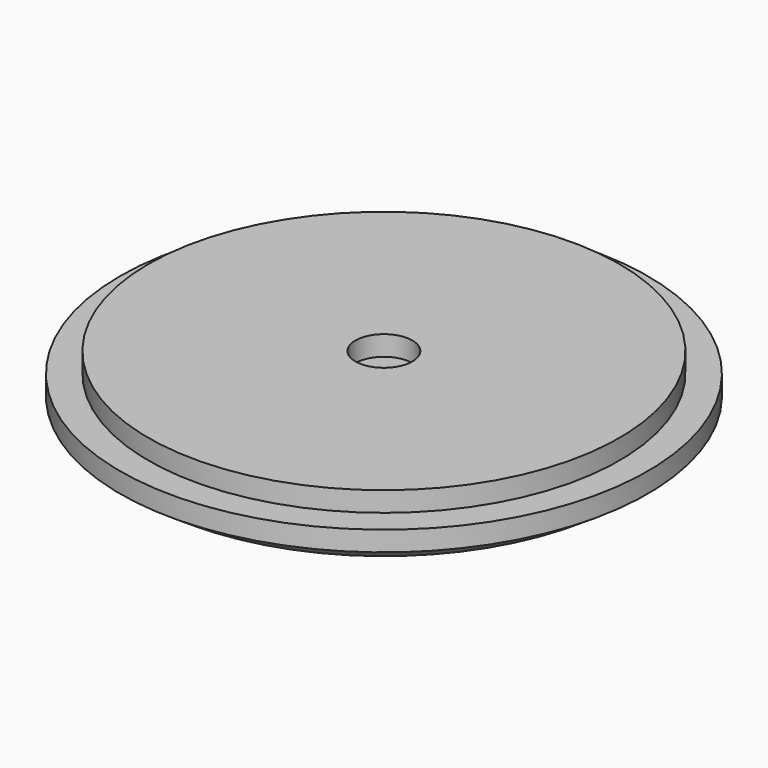
from build123d import *


with BuildPart() as f1:
    # F0 (on Front) → F1 (revolve)
    with BuildSketch(Plane.XZ):
        Polygon((0, 2.480038), (0, 0), (4.826, 0), (5.884321, 0.702038), (5.884321, 1.591038), (4.614321, 1.591038), (4.614321, 2.480038), align=None)
        Polygon((-4.826, 0), (0, 0), (0, 2.480038), (-4.614321, 2.480038), (-4.614321, 1.591038), (-5.884321, 1.591038), (-5.884321, 0.702038), align=None)
    revolve(axis=Axis((5.884321, 0, 1.146538), (0, 0, 1)))


solid = f1.part
